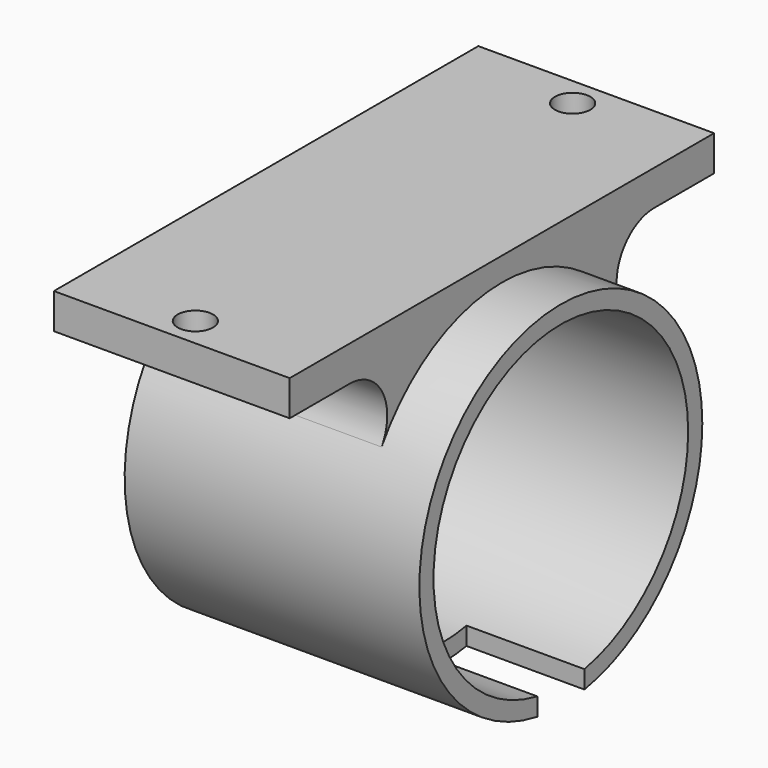
from build123d import *

# Parameters (mm, degrees)
SKETCH_R        = 15
SKETCH_R_2      = 13.5
PAD_DEPTH       = 25
SKETCH001_W     = 5
SKETCH001_H     = 3
POCKET_DEPTH    = 10
SKETCH002_W     = 20
SKETCH002_H     = 45
PAD001_DEPTH    = 3
FILLET_R        = 4
FILLET001_R     = 4
SKETCH003_R     = 1.5
POCKET001_DEPTH = 5


with BuildPart() as part:
    # Sketch → Pad (new body)
    with BuildSketch(Plane.YZ):
        Circle(SKETCH_R)
        Circle(SKETCH_R_2, mode=Mode.SUBTRACT)
    extrude(amount=PAD_DEPTH)

    # Sketch001 (on Face4 of Pad) → Pocket (cut)
    with BuildSketch(Plane.YZ.offset(25)):
        with Locations((0, -14.5)):
            Rectangle(SKETCH001_W, SKETCH001_H)
    extrude(amount=-POCKET_DEPTH, mode=Mode.SUBTRACT)

    # Sketch002 (on DatumPlane) → Pad001 (join)
    with BuildSketch(Plane.XY.offset(17)):
        with Locations((10, 0)):
            Rectangle(SKETCH002_W, SKETCH002_H)
    extrude(amount=-PAD001_DEPTH)

    # Fillet
    fillet_edges = [part.edges().sort_by_distance(p)[0] for p in [
        (10, -5.385165, 14),
    ]]
    fillet(fillet_edges, radius=FILLET_R)

    # Fillet001
    fillet001_edges = [part.edges().sort_by_distance(p)[0] for p in [
        (10, 5.385165, 14),
    ]]
    fillet(fillet001_edges, radius=FILLET001_R)

    # Sketch003 (on Face15 of Fillet001) → Pocket001 (cut)
    with BuildSketch(Plane(origin=(0, 0, 17), x_dir=(0, -1, 0), z_dir=(0, 0, 1))):
        with Locations((-20, 10)):
            Circle(SKETCH003_R)
        with Locations((20, 10)):
            Circle(SKETCH003_R)
    extrude(amount=-POCKET001_DEPTH, mode=Mode.SUBTRACT)


solid = part.part
